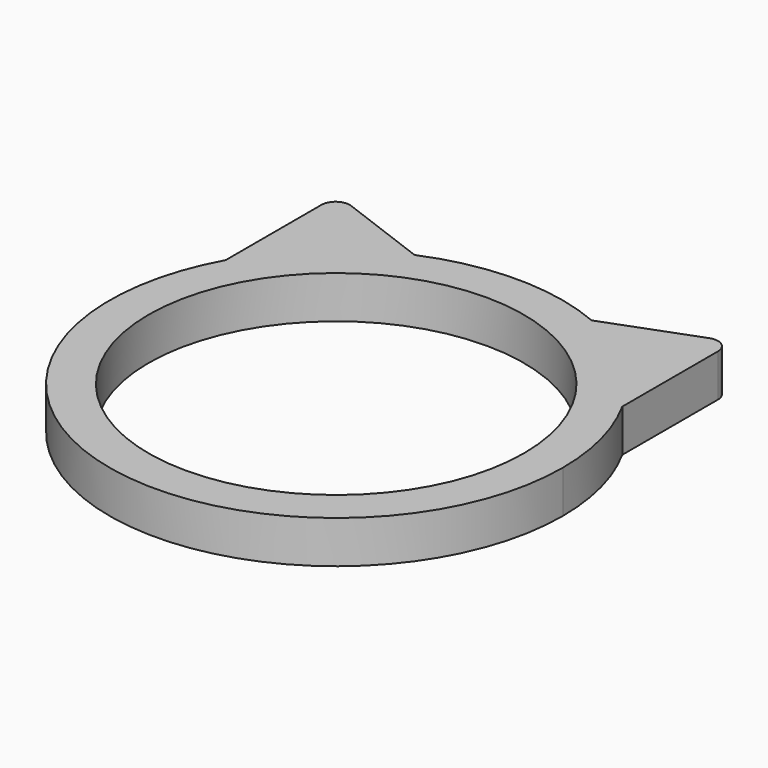
from build123d import *

# Parameters (mm, degrees)
F0_R     = 26.5
F1_DEPTH = 6
F2_R     = 2


with BuildPart() as f1:
    # F0 (on Top) → F1 (new body)
    with BuildSketch(Plane.XY):
        with BuildLine():
            Line((-28, 35.27336), (-28, 15.491933))
            ThreePointArc((-28, 15.491933), (-21.420141, 23.773463), (-12.5, 29.457597))
            Line((-12.5, 29.457597), (-28, 35.27336))
        make_face()
        with BuildLine():
            ThreePointArc((-28, 15.491933), (-8, -30.983867), (32, 0))
            ThreePointArc((32, 0), (30.983867, 8), (28, 15.491933))
            ThreePointArc((28, 15.491933), (21.420141, 23.773463), (12.5, 29.457597))
            ThreePointArc((12.5, 29.457597), (0, 32), (-12.5, 29.457597))
            ThreePointArc((-12.5, 29.457597), (-21.420141, 23.773463), (-28, 15.491933))
        make_face()
        Circle(F0_R, mode=Mode.SUBTRACT)
        with BuildLine():
            ThreePointArc((12.5, 29.457597), (21.420141, 23.773463), (28, 15.491933))
            Line((28, 15.491933), (28, 35.27336))
            Line((28, 35.27336), (12.5, 29.457597))
        make_face()
    extrude(amount=F1_DEPTH)

    # F2
    f2_edges = [f1.edges().sort_by_distance(p)[0] for p in [
        (-28, 35.27336, 3),
        (28, 35.27336, 3),
    ]]
    fillet(f2_edges, radius=F2_R)


solid = f1.part
